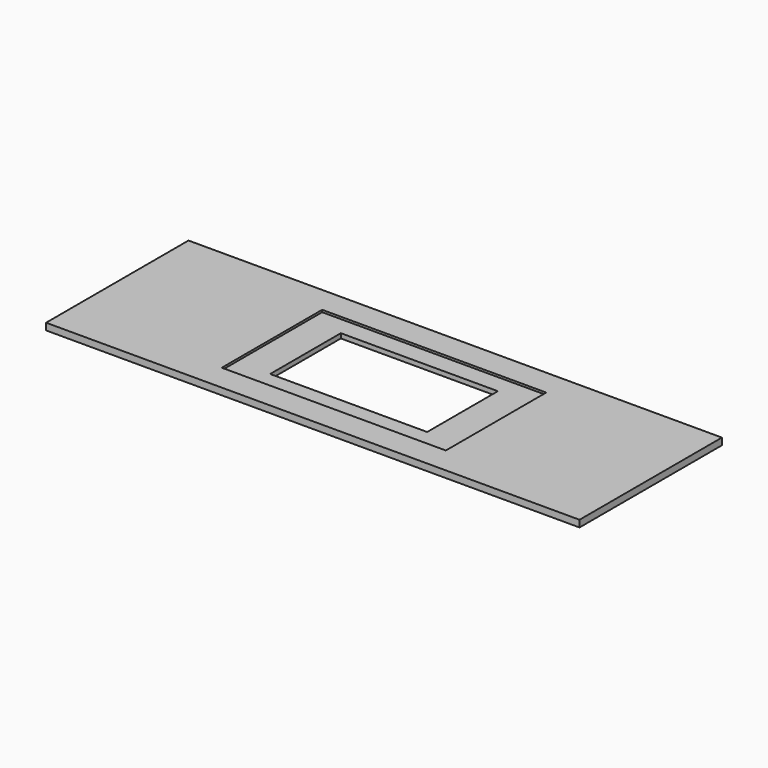
from build123d import *

# Parameters (mm, degrees)
F0_W     = 75.5904
F0_H     = 25.2222
F0_W_2   = 22.2504
F0_H_2   = 12.5222
F1_DEPTH = 0.9652
F2_W     = 31.75
F2_H     = 17.78
F3_DEPTH = 0.3048


with BuildPart() as f1:
    # F0 (on Top) → F1 (new body)
    with BuildSketch(Plane.XY):
        Rectangle(F0_W, F0_H)
        Rectangle(F0_W_2, F0_H_2, mode=Mode.SUBTRACT)
    extrude(amount=F1_DEPTH)

    # F2 (on face) → F3 (cut)
    with BuildSketch(Plane.XY.offset(0.9652)):
        Rectangle(F2_W, F2_H)
    extrude(amount=-F3_DEPTH, mode=Mode.SUBTRACT)


solid = f1.part
